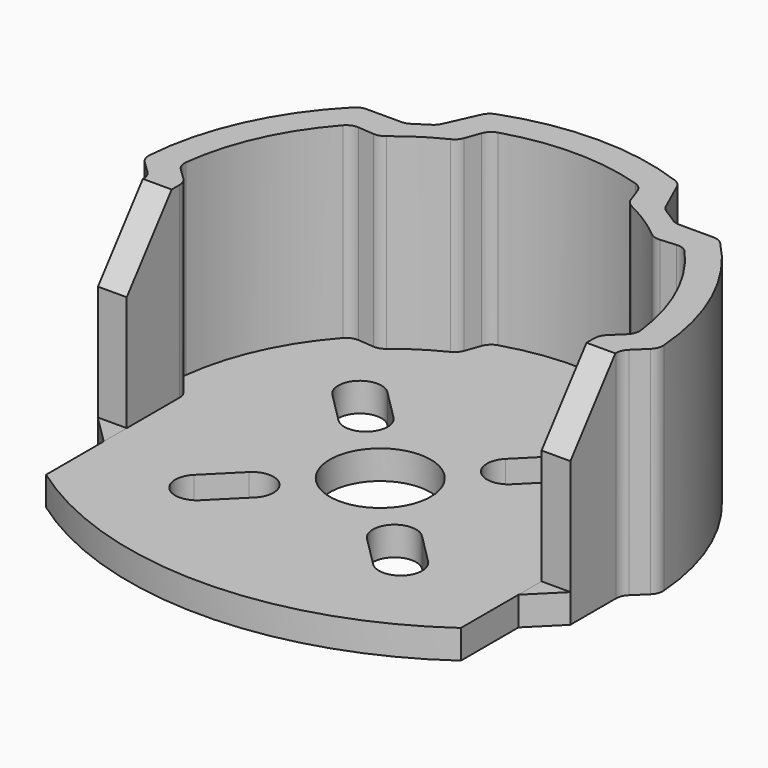
from build123d import *

# Parameters (mm, degrees)
SKETCH_R     = 3.5
PAD004_DEPTH = 3
PAD_DEPTH    = 2
FILLET001_R  = 1
PAD002_DEPTH = 16.5
PAD003_DEPTH = 15
FILLET_R     = 1


with BuildPart() as holes_pad:
    # Sketch → Pad004 (new body)
    with BuildSketch(Plane.XY):
        with Locations((2e-06, -0.999998)):
            Circle(SKETCH_R)
        with BuildLine():
            Line((-6.010406, -4.889085), (-8.131726, -7.010406))
            ThreePointArc((-8.131726, -7.010406), (-8.131726, -9.131726), (-6.010406, -9.131726))
            Line((-3.889085, -7.010406), (-6.010406, -9.131726))
            ThreePointArc((-3.889085, -7.010406), (-3.889085, -4.889085), (-6.010406, -4.889085))
        make_face()
        with BuildLine():
            Line((3.889089, -7.010406), (6.01041, -9.131726))
            ThreePointArc((6.01041, -9.131726), (8.13173, -9.131726), (8.13173, -7.010406))
            Line((6.01041, -4.889085), (8.13173, -7.010406))
            ThreePointArc((6.01041, -4.889085), (3.889089, -4.889085), (3.889089, -7.010406))
        make_face()
        with BuildLine():
            Line((6.01041, 2.889089), (8.13173, 5.01041))
            ThreePointArc((8.13173, 5.01041), (8.13173, 7.13173), (6.01041, 7.13173))
            Line((3.889089, 5.01041), (6.01041, 7.13173))
            ThreePointArc((3.889089, 5.01041), (3.889089, 2.889089), (6.01041, 2.889089))
        make_face()
        with BuildLine():
            Line((-8.131726, 5.01041), (-6.010406, 2.889089))
            ThreePointArc((-6.010406, 2.889089), (-3.889085, 2.889089), (-3.889085, 5.01041))
            Line((-6.010406, 7.13173), (-3.889085, 5.01041))
            ThreePointArc((-6.010406, 7.13173), (-8.131726, 7.13173), (-8.131726, 5.01041))
        make_face()
    extrude(amount=PAD004_DEPTH)


with BuildPart() as base_cut:
    # Sketch001 → Pad (new body)
    with BuildSketch(Plane.XY):
        with BuildLine():
            ThreePointArc((-14.4, -12), (0, -16.607459), (14.4, -12))
            Line((14.4, -12), (14.4, 0))
            Line((14.4, 0), (15.839236, 1.38874))
            ThreePointArc((15.839236, 1.38874), (14.492345, 6.540789), (11.519847, 10.959157))
            Line((11.519847, 10.959157), (9.526303, 10.79859))
            ThreePointArc((9.526303, 10.79859), (7.812114, 12.09673), (5.923734, 13.125143))
            Line((5.25, 15.008248), (5.923734, 13.125143))
            ThreePointArc((5.25, 15.008248), (0, 15.9), (-5.25, 15.008248))
            Line((-5.923734, 13.125143), (-5.25, 15.008248))
            ThreePointArc((-5.923734, 13.125143), (-7.812114, 12.09673), (-9.526303, 10.79859))
            Line((-11.519847, 10.959157), (-9.526303, 10.79859))
            ThreePointArc((-11.519847, 10.959157), (-14.492345, 6.540789), (-15.839236, 1.38874))
            Line((-15.839236, 1.38874), (-14.4, 0))
            Line((-14.4, -12), (-14.4, 0))
        make_face()
    extrude(amount=PAD_DEPTH)

    # Fillet001
    fillet001_edges = [base_cut.edges().sort_by_distance(p)[0] for p in [
        (-11.519847, 10.959157, 1),
        (-15.839236, 1.38874, 1),
        (-14.4, 0, 1),
        (14.4, 0, 1),
        (15.839236, 1.38874, 1),
        (11.519847, 10.959157, 1),
        (9.526303, 10.79859, 1),
        (5.923734, 13.125143, 1),
        (5.25, 15.008248, 1),
        (-5.25, 15.008248, 1),
        (-5.923734, 13.125143, 1),
        (-9.526303, 10.79859, 1),
    ]]
    fillet(fillet001_edges, radius=FILLET001_R)

    # Cut001: cut Holes Pad
    add(holes_pad.part, mode=Mode.SUBTRACT)


with BuildPart() as walls_taper_pad:
    # Sketch002 → Pad002 (new body, symmetric)
    with BuildSketch(Plane.YZ):
        Polygon((-8, 2), (-5, 2), (-5, 10), (-1.1, 15), (-8, 15), align=None)
    extrude(amount=PAD002_DEPTH, both=True)


with BuildPart() as fillet_body:
    # Sketch003 → Pad003 (new body)
    with BuildSketch(Plane.XY):
        with BuildLine():
            Line((-14.4, -7), (-14.4, 0))
            Line((-15.839236, 1.38874), (-14.4, 0))
            ThreePointArc((-11.519847, 10.959157), (-14.492345, 6.540789), (-15.839236, 1.38874))
            Line((-11.519847, 10.959157), (-9.526303, 10.79859))
            ThreePointArc((-5.923734, 13.125143), (-7.812114, 12.09673), (-9.526303, 10.79859))
            Line((-5.923734, 13.125143), (-5.25, 15.008248))
            ThreePointArc((5.25, 15.008248), (0, 15.9), (-5.25, 15.008248))
            Line((5.25, 15.008248), (5.923734, 13.125143))
            ThreePointArc((9.526303, 10.79859), (7.812114, 12.09673), (5.923734, 13.125143))
            Line((11.519847, 10.959157), (9.526303, 10.79859))
            ThreePointArc((15.839236, 1.38874), (14.492345, 6.540789), (11.519847, 10.959157))
            Line((14.4, 0), (15.839236, 1.38874))
            Line((14.4, -7), (14.4, 0))
            Line((14.4, -7), (16.4, -5.01126))
            Line((16.4, -5.01126), (16.4, -0.61126))
            Line((17.881297, 0.818065), (16.4, -0.61126))
            ThreePointArc((17.881297, 0.818065), (16.315282, 7.36353), (12.442819, 12.868032))
            Line((9.339366, 12.868032), (12.442819, 12.868032))
            ThreePointArc((9.339366, 12.868032), (8.625875, 13.356806), (7.886864, 13.806063))
            Line((6.610195, 16.634762), (7.886864, 13.806063))
            ThreePointArc((6.610195, 16.634762), (0, 17.9), (-6.610195, 16.634762))
            Line((-7.886864, 13.806063), (-6.610195, 16.634762))
            Line((-9.339366, 12.868032), (-7.886864, 13.806063))
            Line((-12.442819, 12.868032), (-9.339366, 12.868032))
            ThreePointArc((-12.442819, 12.868032), (-16.315282, 7.36353), (-17.881297, 0.818065))
            Line((-16.4, -0.61126), (-17.881297, 0.818065))
            Line((-16.4, -5.01126), (-16.4, -0.61126))
            Line((-14.4, -7), (-16.4, -5.01126))
        make_face()
    extrude(amount=PAD003_DEPTH)

    # Cut: cut Walls Taper Pad
    add(walls_taper_pad.part, mode=Mode.SUBTRACT)

    # Fillet
    fillet_edges = [fillet_body.edges().sort_by_distance(p)[0] for p in [
        (-14.4, 0, 7.5),
        (-15.839236, 1.38874, 7.5),
        (-11.519847, 10.959157, 7.5),
        (-9.526303, 10.79859, 7.5),
        (-5.923734, 13.125143, 7.5),
        (-5.25, 15.008248, 7.5),
        (5.25, 15.008248, 7.5),
        (5.923734, 13.125143, 7.5),
        (9.526303, 10.79859, 7.5),
        (11.519847, 10.959157, 7.5),
        (15.839236, 1.38874, 7.5),
        (14.4, 0, 7.5),
        (16.4, -0.61126, 7.5),
        (17.881297, 0.818065, 7.5),
        (12.442819, 12.868032, 7.5),
        (9.339366, 12.868032, 7.5),
        (7.886864, 13.806063, 7.5),
        (6.610195, 16.634762, 7.5),
        (-6.610195, 16.634762, 7.5),
        (-7.886864, 13.806063, 7.5),
        (-9.339366, 12.868032, 7.5),
        (-12.442819, 12.868032, 7.5),
        (-17.881297, 0.818065, 7.5),
        (-16.4, -0.61126, 7.5),
    ]]
    fillet(fillet_edges, radius=FILLET_R)


solid = Compound([base_cut.part, fillet_body.part])
